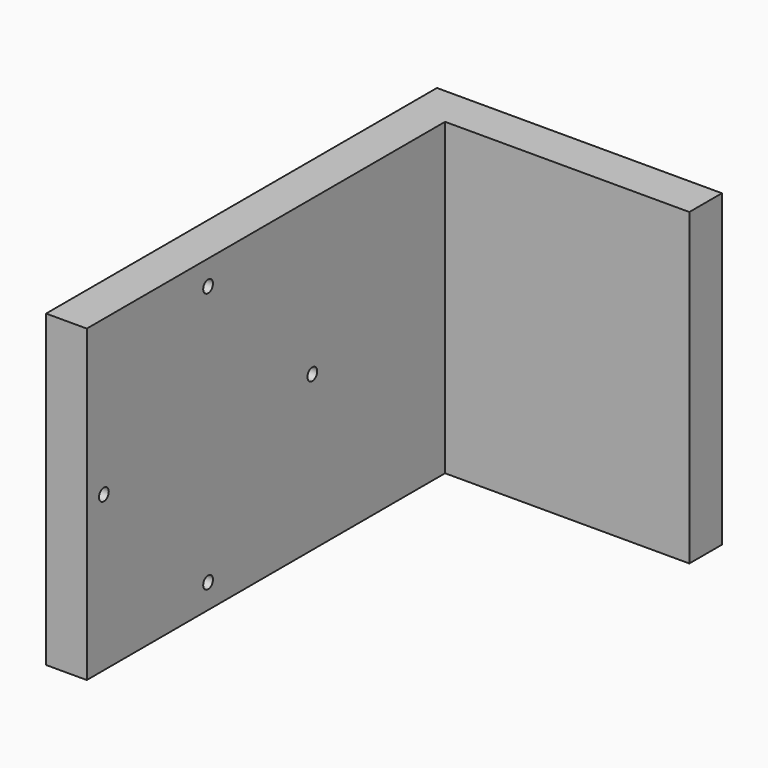
from build123d import *

# Parameters (mm, degrees)
SKETCH001_W  = 120
SKETCH001_H  = 76
SKETCH001_R  = 1.5
PAD_DEPTH    = 10
SKETCH_W     = 70
SKETCH_H     = 76
PAD001_DEPTH = 10


with BuildPart() as part:
    # Sketch001 → Pad (new body)
    with BuildSketch(Plane.YZ):
        with Locations((-60, 0)):
            Rectangle(SKETCH001_W, SKETCH001_H)
        with Locations((-82.756082, 32)):
            Circle(SKETCH001_R, mode=Mode.SUBTRACT)
        with Locations((-114.756082, 0)):
            Circle(SKETCH001_R, mode=Mode.SUBTRACT)
        with Locations((-50.756082, 0)):
            Circle(SKETCH001_R, mode=Mode.SUBTRACT)
        with Locations((-82.756082, -32)):
            Circle(SKETCH001_R, mode=Mode.SUBTRACT)
    extrude(amount=PAD_DEPTH)

    # Sketch → Pad001 (join)
    with BuildSketch(Plane.XZ):
        with Locations((35, 0)):
            Rectangle(SKETCH_W, SKETCH_H)
    extrude(amount=PAD001_DEPTH)


solid = part.part
